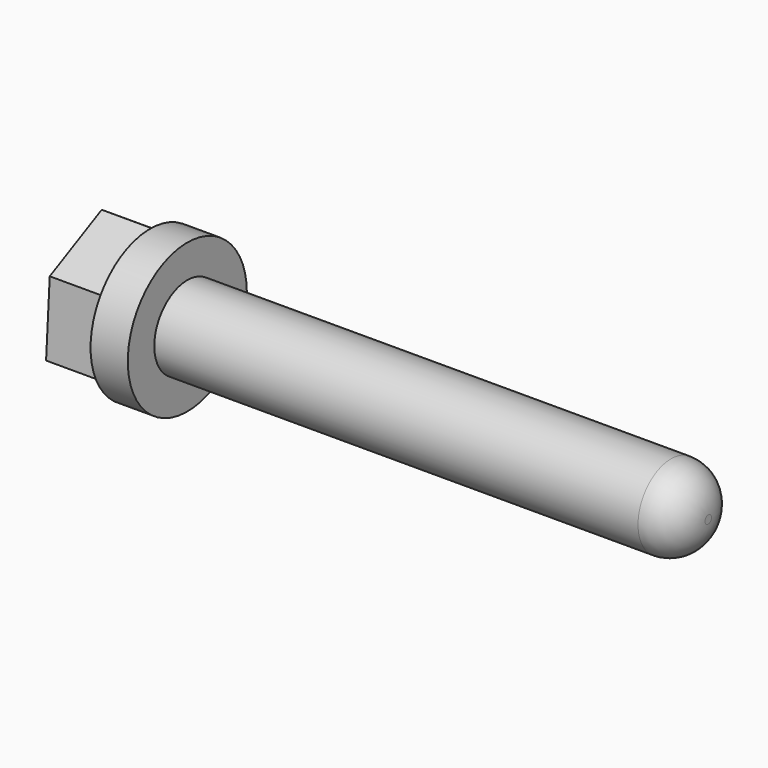
from build123d import *

# Parameters (mm, degrees)
F0_R     = 2.54
F1_DEPTH = 1.27
F3_DEPTH = 1.778
F4_R     = 1.4097
F5_DEPTH = 17.78
F6_R     = 1.27


with BuildPart() as f1:
    # F0 (on Right) → F1 (new body)
    with BuildSketch(Plane.YZ):
        Circle(F0_R)
    extrude(amount=F1_DEPTH)

    # F2 (on face) → F3 (join)
    with BuildSketch(Plane(origin=(0, 0, 0), x_dir=(0, -1, 0), z_dir=(-1, 0, 0))):
        Polygon((-2.0598, -1.369699), (0.156294, -2.468689), (2.216094, -1.09899), (2.0598, 1.369699), (-0.156294, 2.468689), (-2.216094, 1.09899), align=None)
        Polygon((1.805483, -0.893684), (0.128788, -2.010436), (-1.676694, -1.116752), (-1.805483, 0.893684), (-0.128788, 2.010436), (1.676694, 1.116752), align=None, mode=Mode.SUBTRACT)
    extrude(amount=F3_DEPTH)

    # F4 (on face) → F5 (join)
    with BuildSketch(Plane.YZ.offset(1.27)):
        Circle(F4_R)
    extrude(amount=F5_DEPTH)

    # F6
    f6_edges = [f1.edges().sort_by_distance(p)[0] for p in [
        (19.05, -1.4097, 0),
    ]]
    fillet(f6_edges, radius=F6_R)


solid = f1.part
